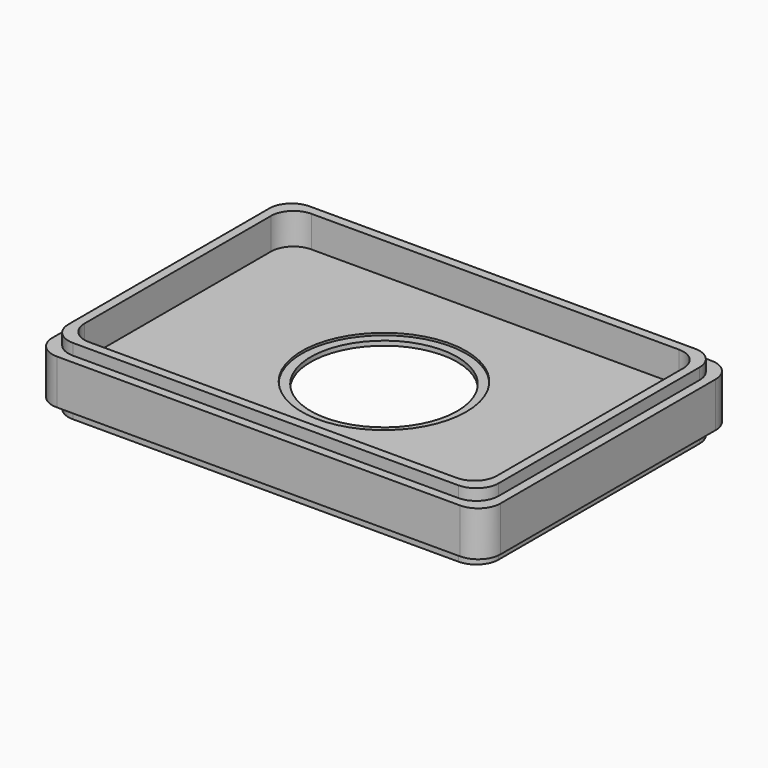
from build123d import *

# Parameters (mm, degrees)
F1_DEPTH = 6.35
F2_DEPTH = 9.525
F0_R     = 23.315742
F3_DEPTH = 0.635
F0_R_2   = 20.775742
F4_DEPTH = 1.27


with BuildPart() as f1:
    # F0 (on Top) → F1 (new body, symmetric)
    with BuildSketch(Plane.XY):
        with BuildLine():
            Line((57.15, 44.45), (-57.15, 44.45))
            ThreePointArc((-57.15, 44.45), (-61.640128, 42.590128), (-63.5, 38.1))
            Line((-63.5, 38.1), (-63.5, -38.1))
            ThreePointArc((-63.5, -38.1), (-61.640128, -42.590128), (-57.15, -44.45))
            Line((-57.15, -44.45), (57.15, -44.45))
            ThreePointArc((57.15, -44.45), (61.640128, -42.590128), (63.5, -38.1))
            Line((63.5, -38.1), (63.5, 38.1))
            ThreePointArc((63.5, 38.1), (61.640128, 42.590128), (57.15, 44.45))
        make_face()
        with BuildLine():
            Line((54.61, -41.91), (-54.61, -41.91))
            ThreePointArc((-54.61, -41.91), (-59.100128, -40.050128), (-60.96, -35.56))
            Line((-60.96, -35.56), (-60.96, 35.56))
            ThreePointArc((-60.96, 35.56), (-59.100128, 40.050128), (-54.61, 41.91))
            Line((-54.61, 41.91), (54.61, 41.91))
            ThreePointArc((54.61, 41.91), (59.100128, 40.050128), (60.96, 35.56))
            Line((60.96, 35.56), (60.96, -35.56))
            ThreePointArc((60.96, -35.56), (59.100128, -40.050128), (54.61, -41.91))
        make_face(mode=Mode.SUBTRACT)
    extrude(amount=F1_DEPTH, both=True)

    # F0 (on Top) → F2 (join, symmetric)
    with BuildSketch(Plane.XY):
        with BuildLine():
            ThreePointArc((-60.96, -35.56), (-59.100128, -40.050128), (-54.61, -41.91))
            Line((-54.61, -41.91), (54.61, -41.91))
            ThreePointArc((54.61, -41.91), (59.100128, -40.050128), (60.96, -35.56))
            Line((60.96, -35.56), (60.96, 35.56))
            ThreePointArc((60.96, 35.56), (59.100128, 40.050128), (54.61, 41.91))
            Line((54.61, 41.91), (-54.61, 41.91))
            ThreePointArc((-54.61, 41.91), (-59.100128, 40.050128), (-60.96, 35.56))
            Line((-60.96, 35.56), (-60.96, -35.56))
        make_face()
        with BuildLine():
            ThreePointArc((-58.42, 33.02), (-56.560128, 37.510128), (-52.07, 39.37))
            Line((-52.07, 39.37), (52.07, 39.37))
            ThreePointArc((52.07, 39.37), (56.560128, 37.510128), (58.42, 33.02))
            Line((58.42, 33.02), (58.42, -33.02))
            ThreePointArc((58.42, -33.02), (56.560128, -37.510128), (52.07, -39.37))
            Line((52.07, -39.37), (-52.07, -39.37))
            ThreePointArc((-52.07, -39.37), (-56.560128, -37.510128), (-58.42, -33.02))
            Line((-58.42, -33.02), (-58.42, 33.02))
        make_face(mode=Mode.SUBTRACT)
    extrude(amount=F2_DEPTH, both=True)

    # F0 (on Top) → F3 (join, symmetric)
    with BuildSketch(Plane.XY):
        with BuildLine():
            Line((52.07, 39.37), (-52.07, 39.37))
            ThreePointArc((-52.07, 39.37), (-56.560128, 37.510128), (-58.42, 33.02))
            Line((-58.42, 33.02), (-58.42, -33.02))
            ThreePointArc((-58.42, -33.02), (-56.560128, -37.510128), (-52.07, -39.37))
            Line((-52.07, -39.37), (52.07, -39.37))
            ThreePointArc((52.07, -39.37), (56.560128, -37.510128), (58.42, -33.02))
            Line((58.42, -33.02), (58.42, 33.02))
            ThreePointArc((58.42, 33.02), (56.560128, 37.510128), (52.07, 39.37))
        make_face()
        Circle(F0_R, mode=Mode.SUBTRACT)
    extrude(amount=F3_DEPTH, both=True)

    # F0 (on Top) → F4 (join)
    with BuildSketch(Plane.XY):
        Circle(F0_R)
        Circle(F0_R_2, mode=Mode.SUBTRACT)
    extrude(amount=-F4_DEPTH)


solid = f1.part
